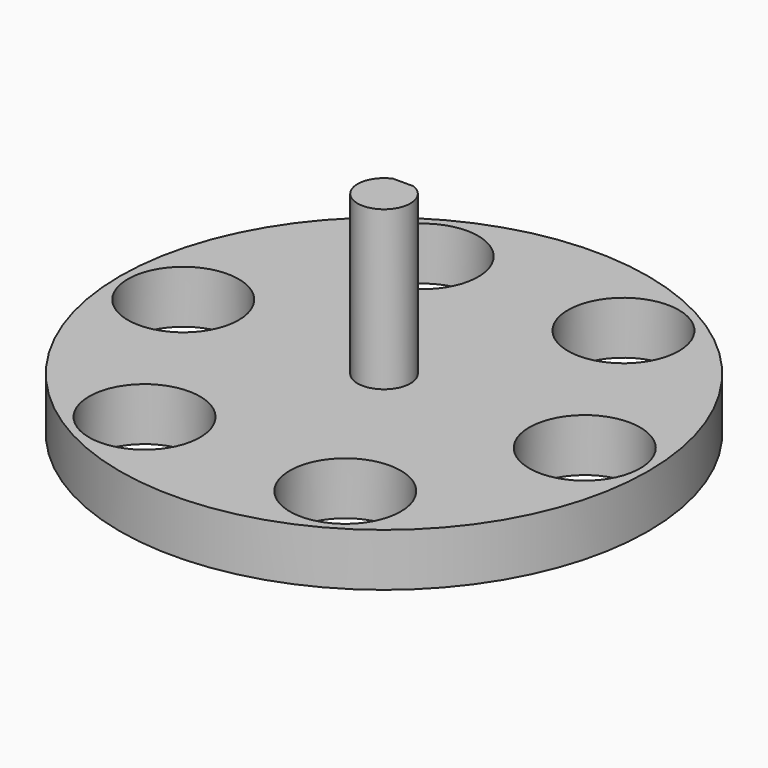
from build123d import *

# Parameters (mm, degrees)
OUTPUTSHAFTBASESKETCH_R = 25
PAD005_DEPTH            = 5
HOLESSKETCH_R           = 5.25
POCKET_DEPTH            = 5
PAD006_DEPTH            = 20
DRIVERHOLEPOLAR_COUNT   = 6


with BuildPart() as part:
    # OutputShaftBaseSketch → Pad005 (new body)
    with BuildSketch(Plane.XY):
        Circle(OUTPUTSHAFTBASESKETCH_R)
    extrude(amount=PAD005_DEPTH)

    # holesSketch → Pocket (cut)
    with BuildSketch(Plane.XY):
        with Locations((-19, 0)):
            Circle(HOLESSKETCH_R)
    pocket = extrude(amount=POCKET_DEPTH, mode=Mode.SUBTRACT)

    with BuildSketch(Plane.XY):
        with BuildLine():
            ThreePointArc((-0.979796, 2.3), (0, -2.5), (0.979796, 2.3))
            Line((-0.979796, 2.3), (0.979796, 2.3))
        make_face()
    extrude(amount=PAD006_DEPTH)

    # DriverHolePolar: Pocket ×6 about axis
    driverholepolar_axis = Axis((0, 0, 0), (0, 0, 1))
    for i in range(1, DRIVERHOLEPOLAR_COUNT):
        add(pocket.rotate(driverholepolar_axis, i * 360 / DRIVERHOLEPOLAR_COUNT), mode=Mode.SUBTRACT)


with BuildPart() as part_1:
    # outputShaft placement: moved
    add(part.part.moved(Location((0, 0, 20))))


solid = part_1.part
